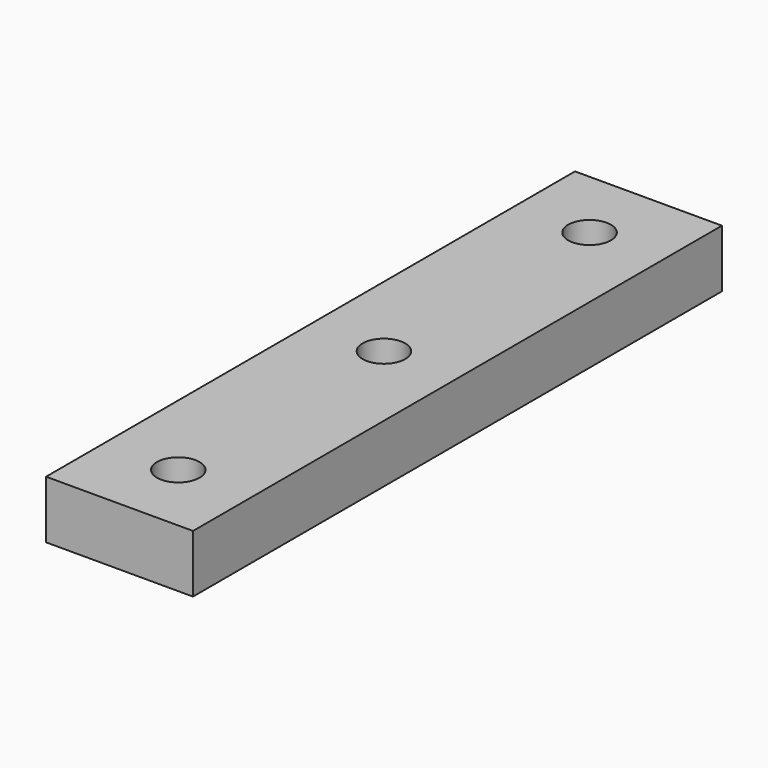
from build123d import *

# Parameters (mm, degrees)
SKETCH058_R      = 2.9
EXTRUDE060_DEPTH = 20
SKETCH057_W      = 20
SKETCH057_H      = 7.87
EXTRUDE059_DEPTH = 90


with BuildPart() as tornillos015:
    # Sketch058 (on Face4 of Extrude059) → Extrude060 (new body)
    with BuildSketch(Plane.XY.offset(19.952513)):
        with Locations((10, -80)):
            Circle(SKETCH058_R)
        with Locations((10, -45.010692)):
            Circle(SKETCH058_R)
        with Locations((10, -10.021384)):
            Circle(SKETCH058_R)
    extrude(amount=EXTRUDE060_DEPTH)


with BuildPart() as tornillos015_1:
    # Extrude060 placement: moved
    add(tornillos015.part.moved(Location((0, 0, -15))))


with BuildPart() as cut:
    # Sketch057 → Extrude059 (new body)
    with BuildSketch(Plane.XZ):
        with Locations((10.003101, 16.017513)):
            Rectangle(SKETCH057_W, SKETCH057_H)
    extrude(amount=EXTRUDE059_DEPTH)

    # Cut: cut Tornillos015
    add(tornillos015_1.part, mode=Mode.SUBTRACT)


with BuildPart() as cut_1:
    # Cut placement: moved
    add(cut.part.moved(Location((0, 90.05, -6.6))))


solid = cut_1.part
